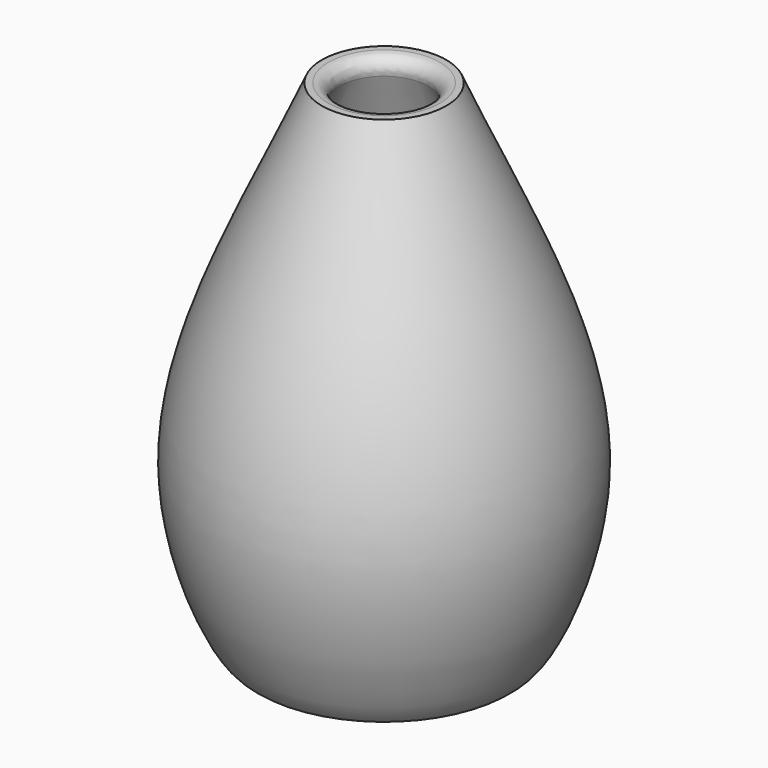
from build123d import *

# Parameters (mm, degrees)
F2_R = 0.5
F3_R = 0.5


with BuildPart() as f1:
    # F0 (on Front) → F1 (revolve)
    with BuildSketch(Plane.XZ):
        with BuildLine():
            add(Edge.make_bspline(
                [(-5, 0), (-5.568478834, 0.3473942948), (-8.9810832887, 7.5078125566), (-4.7572668768, 14.8222669789), (-2.5, 20)],
                knots=[0, 0, 0, 0, 0.3982454309, 1, 1, 1, 1], degree=3))
            Line((-5, 0), (-4, 0))
            add(Edge.make_bspline(
                [(-4, 0), (-4.7774628776, 3.3785415502), (-6.1811078788, 8.0215420638), (-3.2011788665, 15.7336687939), (-1.5, 20)],
                knots=[0, 0, 0, 0, 0.4495116156, 1, 1, 1, 1], degree=3))
            Line((-1.5, 20), (-2.5, 20))
        make_face()
    revolve(axis=Axis((0, 0, 10), (0, 0, -1)))

    # F2
    f2_edges = [f1.edges().sort_by_distance(p)[0] for p in [
        (1.5, 0, 20),
    ]]
    fillet(f2_edges, radius=F2_R)

    # F3
    f3_edges = [f1.edges().sort_by_distance(p)[0] for p in [
        (4, 0, 0),
    ]]
    fillet(f3_edges, radius=F3_R)


solid = f1.part
